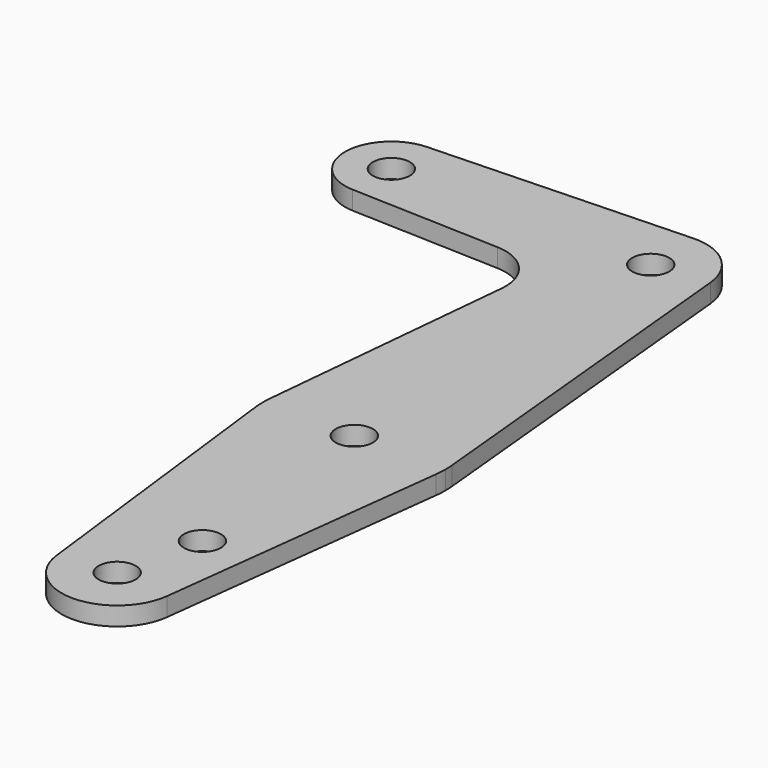
from build123d import *

# Parameters (mm, degrees)
F0_R     = 3.175
F1_DEPTH = 3.175
F2_R     = 8.1915


with BuildPart() as f1:
    # F0 (on Top) → F1 (new body)
    with BuildSketch(Plane.XY):
        with BuildLine():
            ThreePointArc((-44.7334821429, -7.9324362036), (-38.9384772185, -5.7120069047), (-36.5125, 0))
            ThreePointArc((-36.5125, 0), (-38.9384772185, 5.7120069047), (-44.7334821429, 7.9324362036))
            ThreePointArc((-44.7334821429, 7.9324362036), (-52.3875, 0), (-44.7334821429, -7.9324362036))
        make_face()
        with Locations((-44.45, 0)):
            Circle(F0_R, mode=Mode.SUBTRACT)
        with BuildLine():
            ThreePointArc((-44.7334821429, 7.9324362036), (-38.9384772185, 5.7120069047), (-36.5125, 0))
            ThreePointArc((-36.5125, 0), (-38.9384772185, -5.7120069047), (-44.7334821429, -7.9324362036))
            Line((-44.7334821429, -7.9324362036), (-10.4524001899, -9.157542126))
            Line((-10.4524001899, -9.157542126), (-9.481007206, 0.9144))
            ThreePointArc((-9.481007206, 0.9144), (-6.5286582423, 6.9355783144), (-0.3401785714, 9.5189234444))
            Line((-0.3401785714, 9.5189234444), (-44.7334821429, 7.9324362036))
        make_face()
        with BuildLine():
            ThreePointArc((9.481007206, 0.9144), (6.2767940031, 7.1643200684), (-0.3401785714, 9.5189234444))
            ThreePointArc((-0.3401785714, 9.5189234444), (-6.5286582423, 6.9355783144), (-9.481007206, 0.9144))
            ThreePointArc((-9.481007206, 0.9144), (-7.1643200952, -6.2767939725), (-0.3401786529, -9.5189234414))
            ThreePointArc((-0.3401786529, -9.5189234414), (6.6138273084, -6.854408314), (9.525, 0))
            ThreePointArc((9.525, 0), (9.5139954445, 0.4577288296), (9.481007206, 0.9144))
        make_face()
        Circle(F0_R, mode=Mode.SUBTRACT)
        with BuildLine():
            Line((-9.481007206, 0.9144), (-10.4524001899, -9.157542126))
            Line((-10.4524001899, -9.157542126), (-0.3401786529, -9.5189234414))
            ThreePointArc((-0.3401786529, -9.5189234414), (-7.1643200952, -6.2767939725), (-9.481007206, 0.9144))
        make_face()
        with BuildLine():
            Line((-0.3401786529, -9.5189234414), (-10.4524001899, -9.157542126))
            Line((-10.4524001899, -9.157542126), (-15.5488518178, -62.000384))
            ThreePointArc((-15.5488518178, -62.000384), (0, -47.879), (15.5488518178, -62.000384))
            Line((15.5488518178, -62.000384), (9.481007206, 0.9144))
            ThreePointArc((9.481007206, 0.9144), (9.5139954445, 0.4577288296), (9.525, 0))
            ThreePointArc((9.525, 0), (6.6138273084, -6.854408314), (-0.3401786529, -9.5189234414))
        make_face()
        with BuildLine():
            ThreePointArc((15.5488518178, -62.000384), (0, -47.879), (-15.5488518178, -62.000384))
            ThreePointArc((-15.5488518178, -62.000384), (-15.6198619711, -63.6885550396), (-15.5081209619, -65.37452))
            ThreePointArc((-15.5081209619, -65.37452), (0, -79.121), (15.5081209619, -65.37452))
            ThreePointArc((15.5081209619, -65.37452), (15.5927547044, -64.4389577876), (15.621, -63.5))
            ThreePointArc((15.621, -63.5), (15.602952529, -62.7493247194), (15.5488518178, -62.000384))
        make_face()
        with Locations((0, -63.5)):
            Circle(F0_R, mode=Mode.SUBTRACT)
        with BuildLine():
            ThreePointArc((15.5081209619, -65.37452), (0, -79.121), (-15.5081209619, -65.37452))
            Line((-15.5081209619, -65.37452), (-9.4561713182, -115.443))
            ThreePointArc((-9.4561713182, -115.443), (-0.5725352363, -104.7922227412), (9.525, -114.3))
            ThreePointArc((9.525, -114.3), (9.5077772588, -114.8725352363), (9.4561713182, -115.443))
            Line((9.4561713182, -115.443), (15.5081209619, -65.37452))
        make_face()
        with Locations((3.175, -100.0125)):
            Circle(F0_R, mode=Mode.SUBTRACT)
        with BuildLine():
            ThreePointArc((9.525, -114.3), (-0.5725352363, -104.7922227412), (-9.4561713182, -115.443))
            ThreePointArc((-9.4561713182, -115.443), (0, -123.825), (9.4561713182, -115.443))
            ThreePointArc((9.4561713182, -115.443), (9.5077772588, -114.8725352363), (9.525, -114.3))
        make_face()
        with Locations((0, -114.3)):
            Circle(F0_R, mode=Mode.SUBTRACT)
    extrude(amount=F1_DEPTH)

    # F2
    f2_edges = [f1.edges().sort_by_distance(p)[0] for p in [
        (-10.4524, -9.157542, 1.5875),
    ]]
    fillet(f2_edges, radius=F2_R)


solid = f1.part
